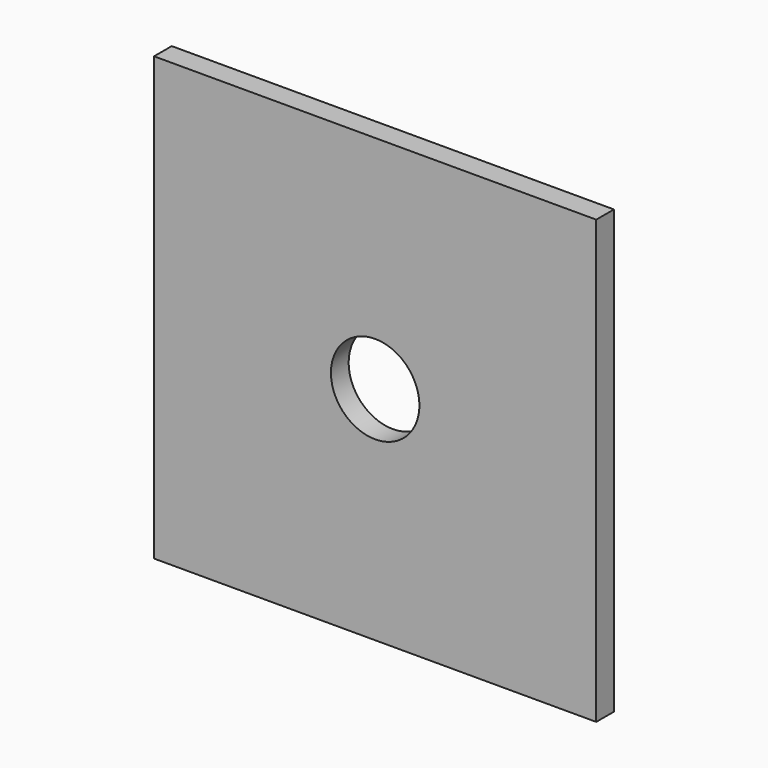
from build123d import *

# Parameters (mm, degrees)
F0_W     = 20
F0_H     = 20
F1_DEPTH = 1
F3_D     = 4


with BuildPart() as f1:
    # F0 (on Front) → F1 (new body)
    with BuildSketch(Plane.XZ):
        Rectangle(F0_W, F0_H)
    extrude(amount=F1_DEPTH)

    # F3 (through all)
    with Locations(Plane.XZ.offset(1)):
        with Locations((0, 0)):
            Hole(F3_D / 2)


solid = f1.part
